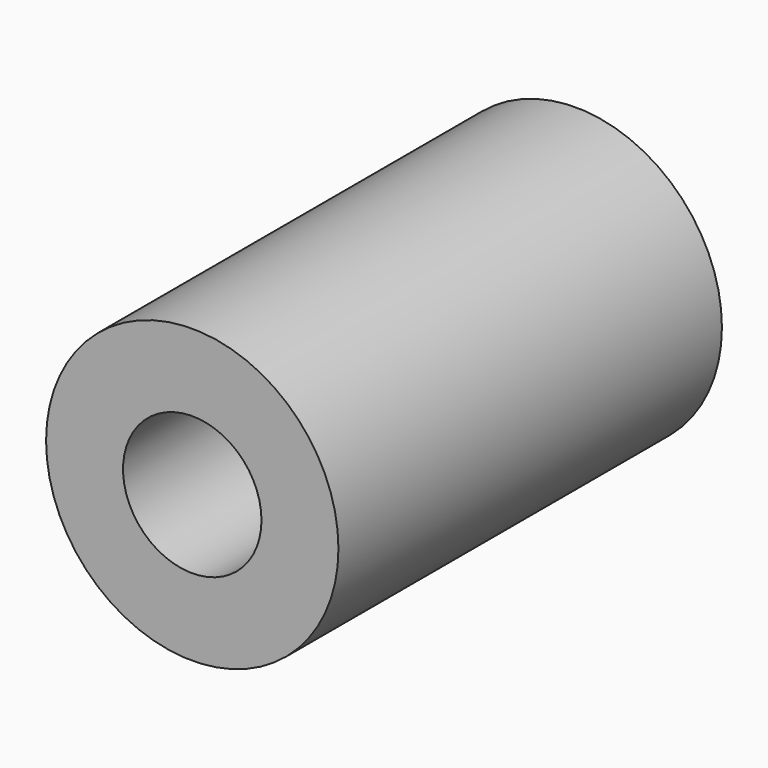
from build123d import *

# Parameters (mm, degrees)
F0_R     = 31.372031
F1_DEPTH = 102.87
F2_R     = 14.854591
F3_DEPTH = 254


with BuildPart() as f1:
    # F0 (on Front) → F1 (new body)
    with BuildSketch(Plane.XZ):
        Circle(F0_R)
    extrude(amount=-F1_DEPTH)

    # F2 (on face) → F3 (cut, symmetric)
    with BuildSketch(Plane.XZ):
        Circle(F2_R)
    extrude(amount=F3_DEPTH, both=True, mode=Mode.SUBTRACT)


solid = f1.part
